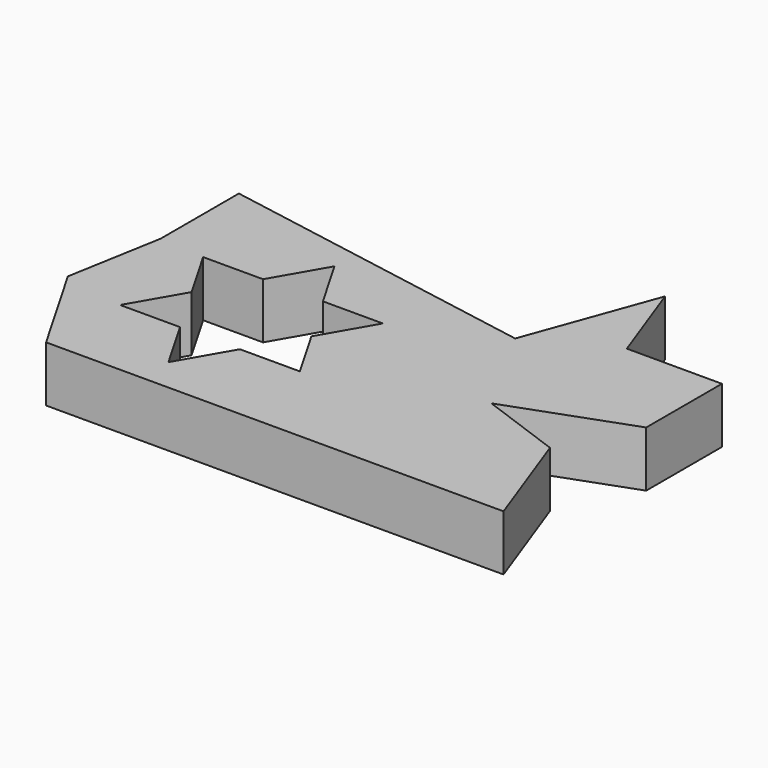
from build123d import *

# Parameters (mm, degrees)
PAD_DEPTH    = 10
POCKET_DEPTH = 10.001


with BuildPart() as part:
    # Sketch → Pad (new body)
    with BuildSketch(Plane.XY):
        Polygon((-41.231688, -29.660868), (41.009132, -29.660868), (34.035849, -10.50193), (19.169409, -5.090988), (40.721873, 2.753467), (40.721873, 19.774112), (23.629803, 19.774112), (17.888071, 35.549391), (9.458496, 12.389326), (-48.365379, 22.585235), (-48.365379, 4.987422), (-51.376506, -12.089527), align=None)
    extrude(amount=PAD_DEPTH)

    # Sketch001 (on Face14 of Pad) → Pocket (cut, through all)
    with BuildSketch(Plane.XY.offset(10)):
        Polygon((-7.902639, -14.299959), (-13.287209, -4.97361), (-7.902639, 4.35274), (-18.67178, 4.35274), (-24.05635, 13.679089), (-29.440921, 4.35274), (-40.210062, 4.35274), (-34.825491, -4.97361), (-40.210062, -14.299959), (-29.440921, -14.299959), (-24.05635, -23.626309), (-18.67178, -14.299959), align=None)
    extrude(amount=-POCKET_DEPTH, mode=Mode.SUBTRACT)


solid = part.part
